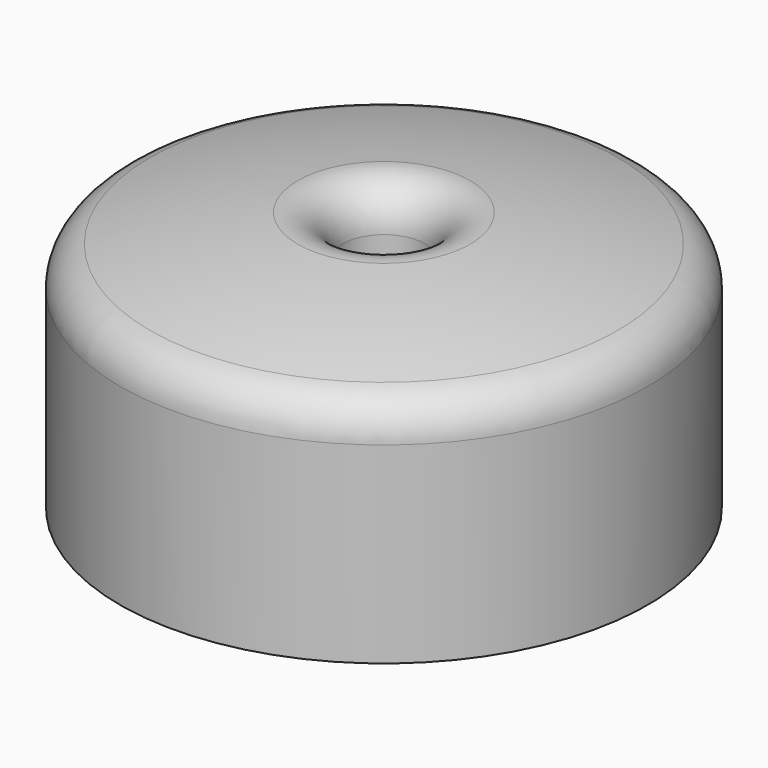
from build123d import *


with BuildPart() as f1:
    # F0 (on Front) → F1 (revolve)
    with BuildSketch(Plane.XZ):
        with BuildLine():
            Line((0, 15), (-6.3, 15))
            ThreePointArc((-6.3, 15), (-6.794975, 15.205025), (-7, 15.7))
            Line((-7, 15.7), (-7, 37.303952))
            ThreePointArc((-7, 37.303952), (-9.302145, 42.49338), (-14.694332, 44.269431))
            ThreePointArc((-14.694332, 44.269431), (-27.392172, 42.445518), (-39.884615, 39.529928))
            ThreePointArc((-39.884615, 39.529928), (-43.576393, 37.019692), (-45, 32.788398))
            Line((-45, 32.788398), (-45, 0))
            Line((-45, 0), (-41.5, 0))
            Line((-41.5, 0), (-41.5, 32.788398))
            ThreePointArc((-41.5, 32.788398), (-40.788196, 34.904045), (-38.942308, 36.159163))
            ThreePointArc((-38.942308, 36.159163), (-26.745009, 39.00587), (-14.347166, 40.786691))
            ThreePointArc((-14.347166, 40.786691), (-11.651073, 39.898666), (-10.5, 37.303952))
            Line((-10.5, 37.303952), (-10.5, 15.7))
            ThreePointArc((-10.5, 15.7), (-9.269848, 12.730152), (-6.3, 11.5))
            Line((-6.3, 11.5), (0, 11.5))
            Line((0, 11.5), (0, 15))
        make_face()
    revolve(axis=Axis((0, 0, 13.25), (0, 0, -1)))


solid = f1.part
